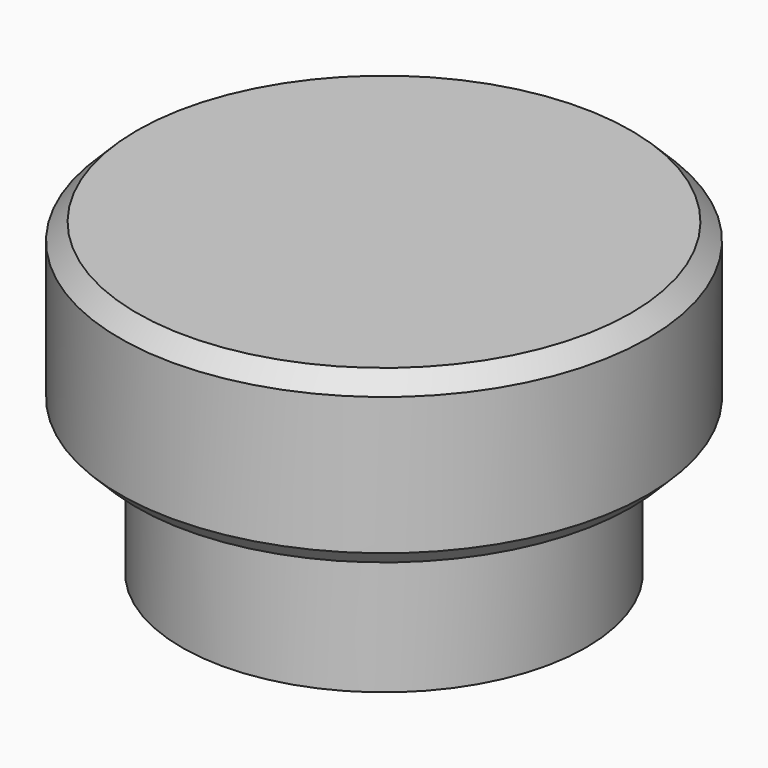
from build123d import *

# Parameters (mm, degrees)
SKETCH010_W     = 0.5
SKETCH010_H     = 5
POCKET001_DEPTH = 4
CHAMFER_SIZE    = 0.3


with BuildPart() as part:
    # Sketch008 → Revolution002 (revolve)
    with BuildSketch(Plane.XZ):
        Polygon((-3.6, 0), (-3.6, 2.452), (-4.699, 2.452), (-4.699, 5.5), (0, 5.5), (0, 4), (-1.3, 4), (-1.3, 1), (-2.3, 1), (-2.3, 4), (-3.1, 4), (-3.1, 0), align=None)
    revolve(axis=Axis((0, 0, 0), (0, 0, 1)))

    # Sketch010 → Pocket001 (cut)
    with BuildSketch(Plane.XY):
        Rectangle(SKETCH010_W, SKETCH010_H)
    extrude(amount=POCKET001_DEPTH, mode=Mode.SUBTRACT)

    # Chamfer
    chamfer_edges = [part.edges().sort_by_distance(p)[0] for p in [
        (4.699, 0, 5.5),
        (4.699, 0, 2.452),
        (1.3, 0, 1),
        (-1.003743, 0.826136, 1),
    ]]
    chamfer(chamfer_edges, length=CHAMFER_SIZE)


solid = part.part
